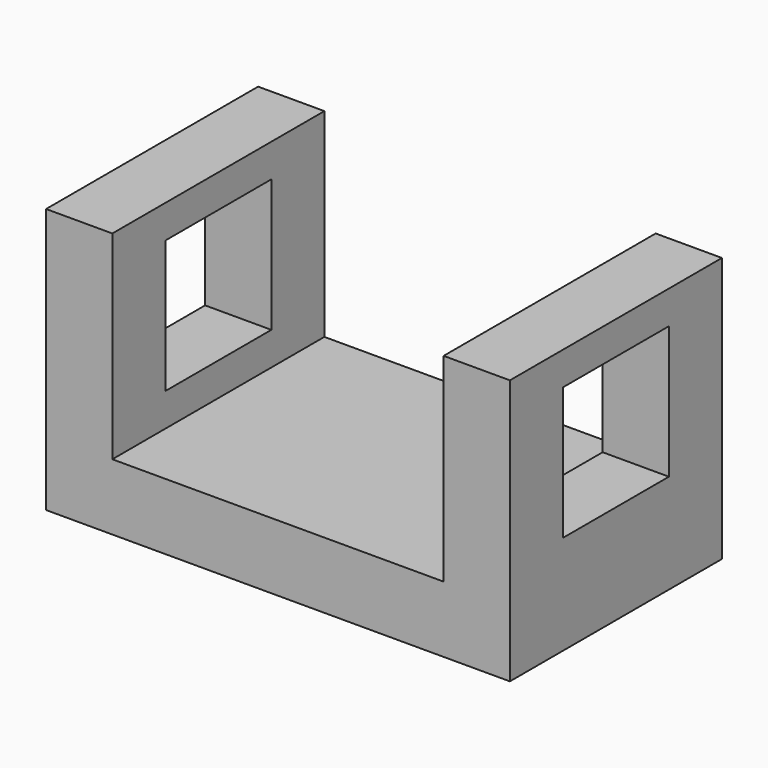
from build123d import *

# Parameters (mm, degrees)
F2_DEPTH = 50.8
F3_W     = 25.4
F3_H     = 25.4
F4_DEPTH = 12.7
F6_DEPTH = 12.7


with BuildPart() as f2:
    # F0 (on Front) → F2 (new body)
    with BuildSketch(Plane.XZ):
        Polygon((-52.773303, 24.633937), (-65.473303, 24.633937), (-65.473303, -26.166063), (23.426697, -26.166063), (23.426697, 24.633937), (10.726697, 24.633937), (10.726697, -13.466063), (-52.773303, -13.466063), align=None)
    extrude(amount=F2_DEPTH)

    # F3 (on face) → F4 (cut)
    with BuildSketch(Plane.YZ.offset(23.426697)):
        with Locations((-25.4, 5.583937)):
            Rectangle(F3_W, F3_H)
    extrude(amount=-F4_DEPTH, mode=Mode.SUBTRACT)

    # F5 (on face) → F6 (cut)
    with BuildSketch(Plane(origin=(-65.473303, 0, 0), x_dir=(0, -1, 0), z_dir=(-1, 0, 0))):
        Polygon((38.1, 18.283937), (12.7, 18.283937), (12.7, 5.583937), (12.7, -7.116063), (25.4, -7.116063), (38.1, -7.116063), align=None)
    extrude(amount=-F6_DEPTH, mode=Mode.SUBTRACT)


solid = f2.part
